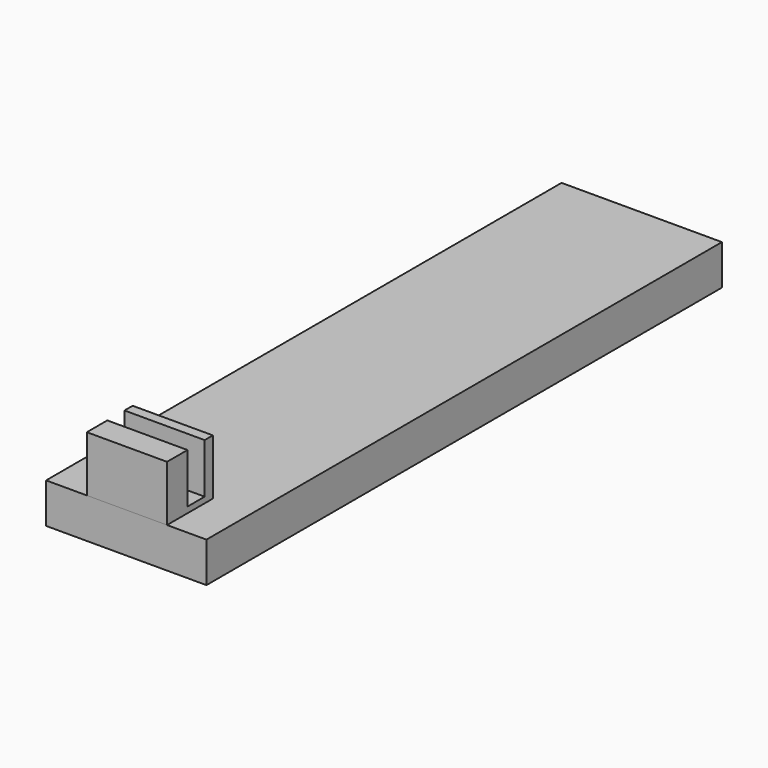
from build123d import *

# Parameters (mm, degrees)
F0_W          = 14.224
F0_H          = 3.556
F1_DEPTH      = 25.4
F1_DEPTH_BACK = 31.75
F2_W          = 5.08
F2_H          = 5.08
F3_DEPTH      = 3.556
F3_DEPTH_BACK = 3.556
F4_W          = 1.905
F4_H          = 4.572
F5_DEPTH      = 3.81
F5_DEPTH_BACK = 3.81


with BuildPart() as f1:
    # F0 (on Front) → F1 (new body, two sides)
    with BuildSketch(Plane.XZ) as f1_sk:
        with Locations((-0.0590678749, 0.0447268487)):
            Rectangle(F0_W, F0_H)
    extrude(amount=F1_DEPTH)
    extrude(f1_sk.sketch, amount=-F1_DEPTH_BACK)

    # F2 (on Right) → F3 (join, two sides)
    with BuildSketch(Plane.YZ) as f3_sk:
        with Locations((-22.8598152912, 4.2202161699)):
            Rectangle(F2_W, F2_H)
    extrude(amount=F3_DEPTH)
    extrude(f3_sk.sketch, amount=-F3_DEPTH_BACK)

    # F4 (on Right) → F5 (cut, two sides)
    with BuildSketch(Plane.YZ) as f5_sk:
        with Locations((-22.1804035014, 4.6287587003)):
            Rectangle(F4_W, F4_H)
    extrude(amount=-F5_DEPTH, mode=Mode.SUBTRACT)
    extrude(f5_sk.sketch, amount=F5_DEPTH_BACK, mode=Mode.SUBTRACT)


solid = f1.part
